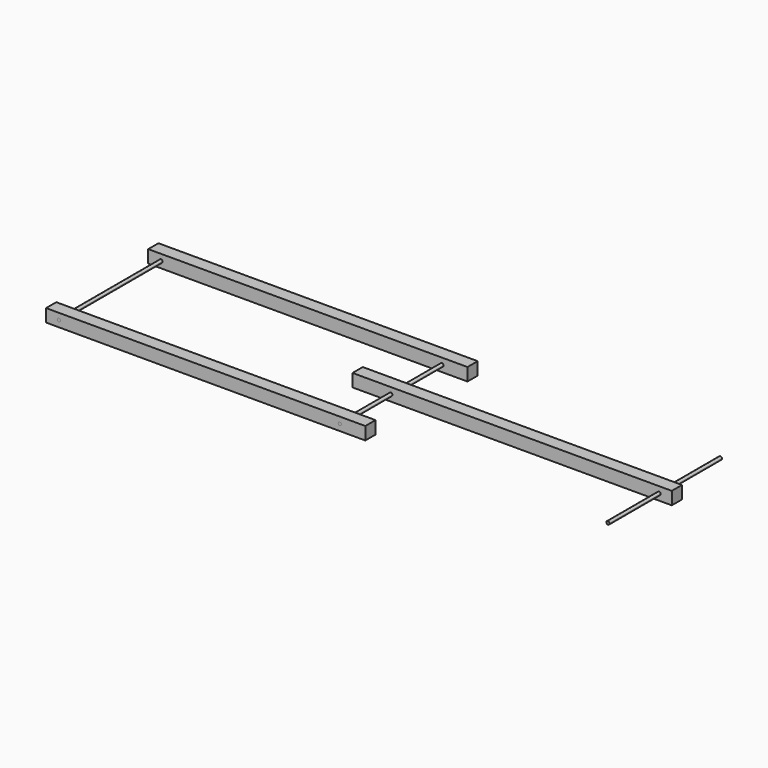
from build123d import *

# Parameters (mm, degrees)
F0_W     = 250
F0_H     = 10
F1_DEPTH = 5
F2_R     = 1.25
F3_DEPTH = 109
F5_DEPTH = 100
F7_DEPTH = 50
F9_DEPTH = 50


with BuildPart() as f1:
    # F0 (on Top) → F1 (new body, symmetric)
    with BuildSketch(Plane.XY):
        with Locations((-115, 77.3421949893)):
            Rectangle(F0_W, F0_H)
    extrude(amount=F1_DEPTH, both=True)


with BuildPart() as f1b:
    # F0 (on Top) → F1, piece 2 (new body, symmetric)
    with BuildSketch(Plane.XY):
        with Locations((85, 27.3421949893)):
            Rectangle(F0_W, F0_H)
    extrude(amount=F1_DEPTH, both=True)

    # F6 (on face) → F7 (join)
    with BuildSketch(Plane(origin=(0, 32.3421949893, 0), x_dir=(-1, 0, 0), z_dir=(0, 1, 0))):
        with BuildLine():
            ThreePointArc((-198.75, 0), (-199.1161165235, 0.8838834765), (-200, 1.25))
            Line((-200, 1.25), (-200, -1.25))
            ThreePointArc((-200, -1.25), (-199.1161165235, -0.8838834765), (-198.75, 0))
        make_face()
        with BuildLine():
            Line((-200, -1.25), (-200, 1.25))
            ThreePointArc((-200, 1.25), (-201.25, 0), (-200, -1.25))
        make_face()
    extrude(amount=F7_DEPTH)

    # F8 (on face) → F9 (join)
    with BuildSketch(Plane.XZ.offset(-22.3421949893)):
        with BuildLine():
            ThreePointArc((201.25, 0), (200.8838834765, 0.8838834765), (200, 1.25))
            Line((200, 1.25), (200, -1.25))
            ThreePointArc((200, -1.25), (200.8838834765, -0.8838834765), (201.25, 0))
        make_face()
        with BuildLine():
            Line((200, -1.25), (200, 1.25))
            ThreePointArc((200, 1.25), (198.75, 0), (200, -1.25))
        make_face()
    extrude(amount=F9_DEPTH)


with BuildPart() as f1c:
    # F0 (on Top) → F1, piece 3 (new body, symmetric)
    with BuildSketch(Plane.XY):
        with Locations((-115, -22.6578050107)):
            Rectangle(F0_W, F0_H)
    extrude(amount=F1_DEPTH, both=True)


with BuildPart() as f3:
    # F2 (on face) → F3 (new body)
    with BuildSketch(Plane.XZ.offset(27.6578050107)):
        with Locations((-10, 0)):
            Circle(F2_R)
    extrude(amount=-F3_DEPTH)


with BuildPart() as f5:
    # F4 (on face) → F5 (new body)
    with BuildSketch(Plane.XZ.offset(27.6578050107)):
        with BuildLine():
            Line((-230, -1.25), (-230, 1.25))
            ThreePointArc((-230, 1.25), (-231.25, 0), (-230, -1.25))
        make_face()
        with BuildLine():
            ThreePointArc((-228.75, 0), (-229.1161165235, 0.8838834765), (-230, 1.25))
            Line((-230, 1.25), (-230, -1.25))
            ThreePointArc((-230, -1.25), (-229.1161165235, -0.8838834765), (-228.75, 0))
        make_face()
    extrude(amount=-F5_DEPTH)


solid = Compound([f1.part, f1b.part, f1c.part, f3.part, f5.part])
